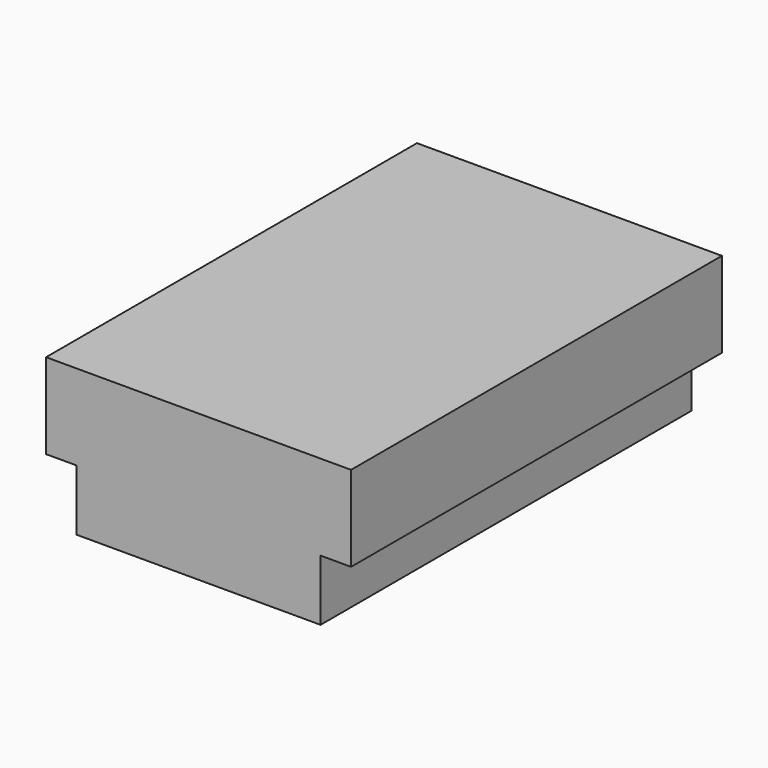
from build123d import *

# Parameters (mm, degrees)
F0_W     = 25
F0_H     = 38
F1_DEPTH = 12
F2_W     = 2.5
F2_H     = 38
F3_DEPTH = 5


with BuildPart() as f1:
    # F0 (on Top) → F1 (new body)
    with BuildSketch(Plane.XY):
        with Locations((-16.681037, 2.101895)):
            Rectangle(F0_W, F0_H)
    extrude(amount=F1_DEPTH)

    # F2 (on face) → F3 (cut)
    with BuildSketch(Plane(origin=(0, 0, 0), x_dir=(1, 0, 0), z_dir=(0, 0, -1))):
        with Locations((-27.931037, -2.101895)):
            Rectangle(F2_W, F2_H)
        with Locations((-5.431037, -2.101895)):
            Rectangle(F2_W, F2_H)
    extrude(amount=-F3_DEPTH, mode=Mode.SUBTRACT)


solid = f1.part
